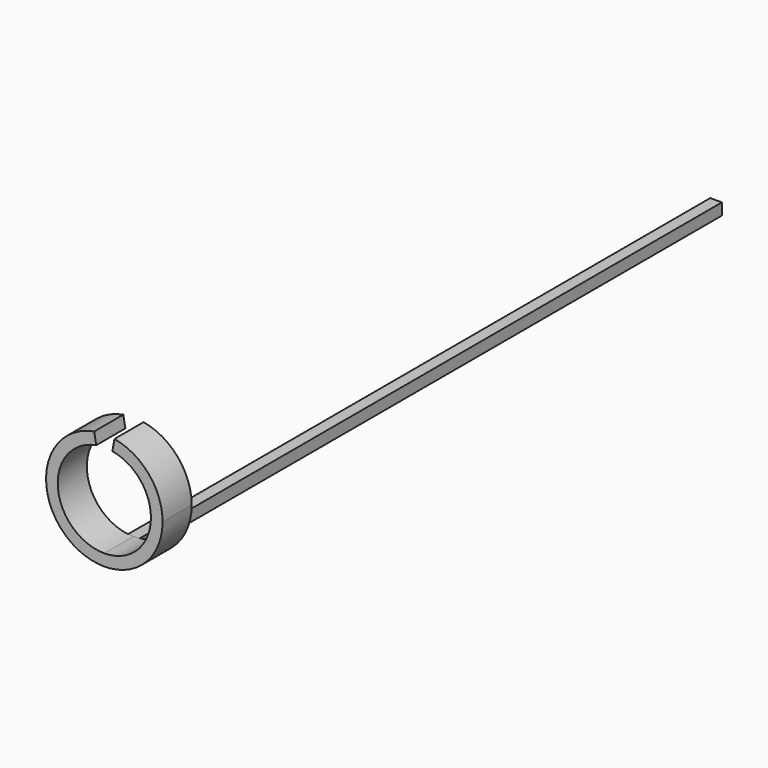
from build123d import *

# Parameters (mm, degrees)
F0_W     = 1.6
F0_H     = 100
F1_DEPTH = 1.6
F3_DEPTH = 5


with BuildPart() as f1:
    # F0 (on Top) → F1 (new body)
    with BuildSketch(Plane.XY):
        Rectangle(F0_W, F0_H)
    extrude(amount=F1_DEPTH)

    # F2 (on face) → F3 (join)
    with BuildSketch(Plane.XZ.offset(50)):
        with BuildLine():
            Line((-1.111348, 14.30277), (-1.389185, 15.878462))
            ThreePointArc((-1.389185, 15.878462), (-7.99447, 7.702607), (-0.8, 0.040101))
            Line((-0.8, 0.040101), (-0.8, 1.6))
            Line((-0.8, 1.6), (0, 1.6))
            ThreePointArc((0, 1.6), (-6.375646, 7.442203), (-1.111348, 14.30277))
        make_face()
        with BuildLine():
            ThreePointArc((0.8, 0.040101), (5.932959, 2.633437), (8, 8))
            ThreePointArc((8, 8), (6.128356, 13.142301), (1.389185, 15.878462))
            Line((1.389185, 15.878462), (1.111348, 14.30277))
            ThreePointArc((1.111348, 14.30277), (4.902684, 12.113841), (6.4, 8))
            ThreePointArc((6.4, 8), (4.525483, 3.474517), (0, 1.6))
            Line((0, 1.6), (0.8, 1.6))
            Line((0.8, 1.6), (0.8, 0.040101))
        make_face()
        with BuildLine():
            ThreePointArc((0, 0), (0.400502, 0.010031), (0.8, 0.040101))
            Line((0.8, 0.040101), (0.8, 1.6))
            Line((0.8, 1.6), (0, 1.6))
            Line((0, 1.6), (-0.8, 1.6))
            Line((-0.8, 1.6), (-0.8, 0.040101))
            ThreePointArc((-0.8, 0.040101), (-0.400502, 0.010031), (0, 0))
        make_face()
    extrude(amount=F3_DEPTH)


solid = f1.part
